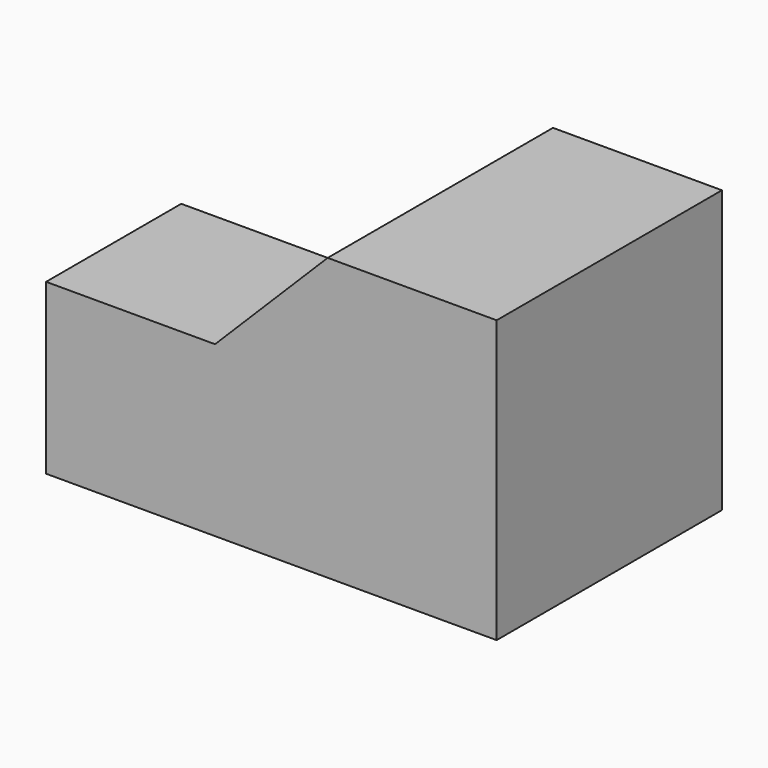
from build123d import *

# Parameters (mm, degrees)
F0_W     = 50.8
F0_H     = 31.75
F1_DEPTH = 31.75
F3_DEPTH = 38.1
F6_DEPTH = 12.7


with BuildPart() as f1:
    # F0 (on Front) → F1 (new body)
    with BuildSketch(Plane.XZ):
        with Locations((-23.462558, 15.875)):
            Rectangle(F0_W, F0_H)
    extrude(amount=F1_DEPTH)

    # F2 (on face) → F3 (cut)
    with BuildSketch(Plane(origin=(0, 0, 0), x_dir=(-1, 0, 0), z_dir=(0, 1, 0))):
        Polygon((29.812558, 19.05), (48.862558, 19.05), (48.862558, 31.75), (17.112558, 31.75), align=None)
    extrude(amount=-F3_DEPTH, mode=Mode.SUBTRACT)

    # F4 (on face) → F6 (cut)
    with BuildSketch(Plane(origin=(0, 0, 0), x_dir=(-1, 0, 0), z_dir=(0, 1, 0))):
        Polygon((48.862558, 19.05), (29.812558, 19.05), (48.862558, 0), align=None)
    extrude(amount=-F6_DEPTH, mode=Mode.SUBTRACT)


solid = f1.part
